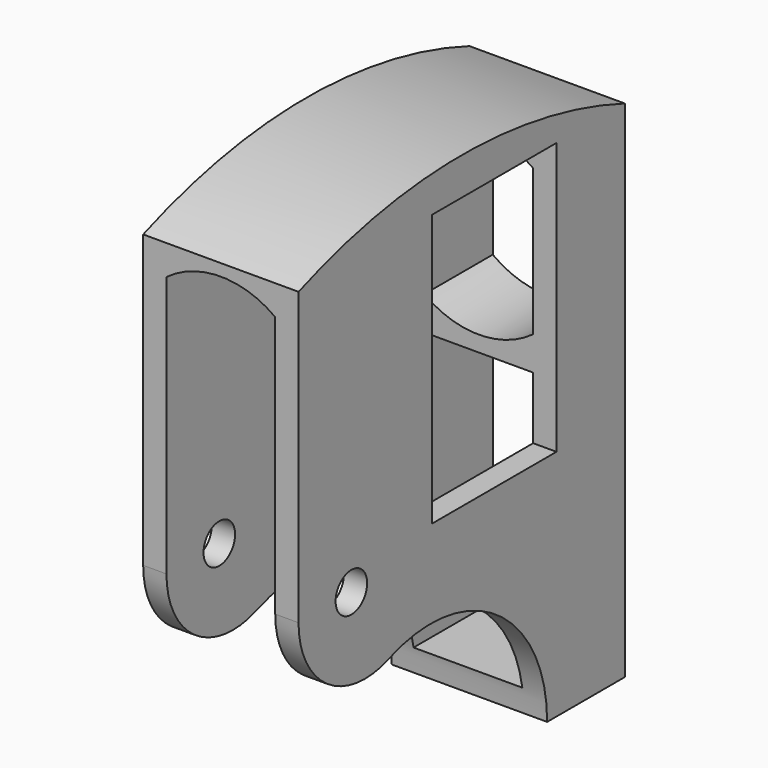
from build123d import *

# Parameters (mm, degrees)
F1_DEPTH      = 10.16
F1_DEPTH_BACK = 10.16
F2_W          = 20.32
F2_H          = 35.56
F2_R          = 2.5781
F3_DEPTH      = 25.4
F4_W          = 14.224
F4_H          = 35.56
F5_DEPTH      = 54.61
F7_DEPTH      = 25.4


with BuildPart() as f1:
    # F0 (on Right) → F1 (new body, two sides)
    with BuildSketch(Plane.YZ) as f1_sk:
        with BuildLine():
            Line((-12.7, 0), (0, 0))
            Line((0, 0), (0, 66.04))
            ThreePointArc((0, 66.04), (-26.67, 70.940694), (-53.34, 66.04))
            Line((-53.34, 66.04), (-53.34, 27.94))
            ThreePointArc((-53.34, 27.94), (-48.702079, 19.030695), (-38.743793, 17.719745))
            ThreePointArc((-38.743793, 17.719745), (-38.570599, 17.787128), (-38.396755, 17.852819))
            ThreePointArc((-38.396755, 17.852819), (-20.880736, 15.644858), (-12.7, 0))
        make_face()
    extrude(amount=F1_DEPTH)
    extrude(f1_sk.sketch, amount=-F1_DEPTH_BACK)

    # F2 (on face) → F3 (cut)
    with BuildSketch(Plane.YZ.offset(10.16)):
        with Locations((-21.336, 48.26)):
            Rectangle(F2_W, F2_H)
        with Locations((-44.704, 27.94)):
            Circle(F2_R)
    extrude(amount=-F3_DEPTH, mode=Mode.SUBTRACT)

    # F4 (on face) → F5 (cut)
    with BuildSketch(Plane(origin=(0, 0, 0), x_dir=(-1, 0, 0), z_dir=(0, 1, 0))):
        with BuildLine():
            Line((7.112, 43.021353), (7.112, 62.134647))
            ThreePointArc((7.112, 62.134647), (0, 64.4906), (-7.112, 62.134647))
            Line((-7.112, 62.134647), (-7.112, 43.021353))
            ThreePointArc((-7.112, 43.021353), (0, 40.6654), (7.112, 43.021353))
        make_face()
        with Locations((0, 20.828)):
            Rectangle(F4_W, F4_H)
    extrude(amount=-F5_DEPTH, mode=Mode.SUBTRACT)

    # F6 (on face) → F7 (cut)
    with BuildSketch(Plane.XZ.offset(53.34)):
        with BuildLine():
            Line((-7.112, 43.443549), (-7.112, 38.608))
            Line((-7.112, 38.608), (7.112, 38.608))
            Line((7.112, 38.608), (7.112, 43.443549))
            ThreePointArc((7.112, 43.443549), (0, 41.004444), (-7.112, 43.443549))
        make_face()
    extrude(amount=-F7_DEPTH, mode=Mode.SUBTRACT)


solid = f1.part
